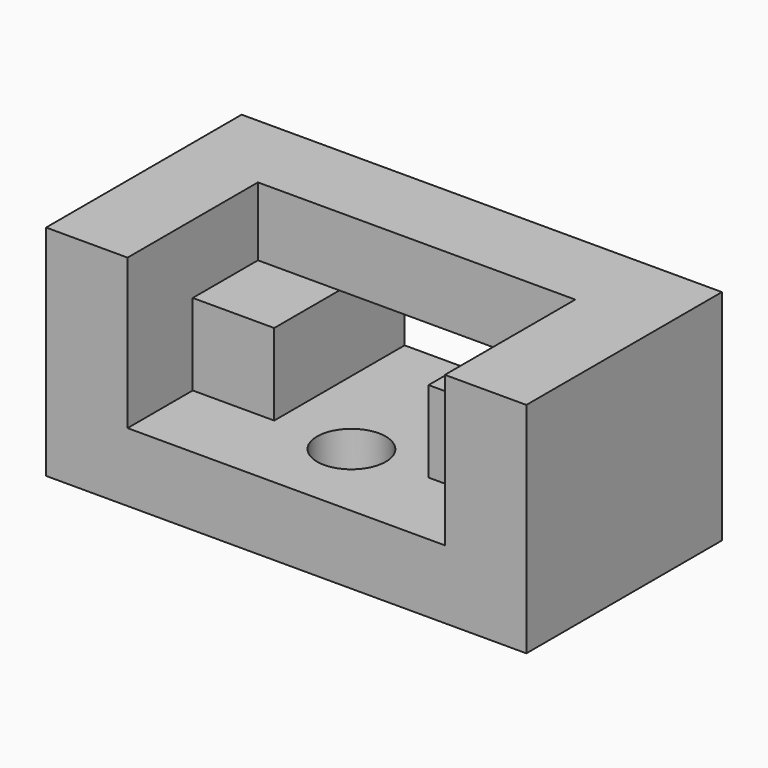
from build123d import *

# Parameters (mm, degrees)
F0_W     = 112
F0_H     = 51
F1_DEPTH = 57
F2_W     = 74
F2_H     = 35
F3_DEPTH = 19
F4_W     = 74
F4_H     = 19
F5_DEPTH = 16
F6_W     = 36
F6_H     = 19
F7_DEPTH = 38.001
F8_R     = 8
F9_DEPTH = 16


with BuildPart() as f1:
    # F0 (on Front) → F1 (new body)
    with BuildSketch(Plane.XZ):
        with Locations((5.4285720444, 25.5)):
            Rectangle(F0_W, F0_H)
    extrude(amount=F1_DEPTH)

    # F2 (on face) → F3 (cut)
    with BuildSketch(Plane.XZ.offset(57)):
        with Locations((5.4285720444, 33.5)):
            Rectangle(F2_W, F2_H)
    extrude(amount=-F3_DEPTH, mode=Mode.SUBTRACT)

    # F4 (on face) → F5 (cut)
    with BuildSketch(Plane.XY.offset(51)):
        with Locations((5.4285720444, -28.5)):
            Rectangle(F4_W, F4_H)
    extrude(amount=-F5_DEPTH, mode=Mode.SUBTRACT)

    # F6 (on face) → F7 (cut, through all)
    with BuildSketch(Plane.XZ.offset(38)):
        with Locations((5.4285720444, 25.5)):
            Rectangle(F6_W, F6_H)
    extrude(amount=-F7_DEPTH, mode=Mode.SUBTRACT)

    # F8 (on face) → F9 (cut)
    with BuildSketch(Plane(origin=(0, 0, 0), x_dir=(1, 0, 0), z_dir=(0, 0, -1))):
        with Locations((5.4285720444, 38)):
            Circle(F8_R)
    extrude(amount=-F9_DEPTH, mode=Mode.SUBTRACT)


solid = f1.part
